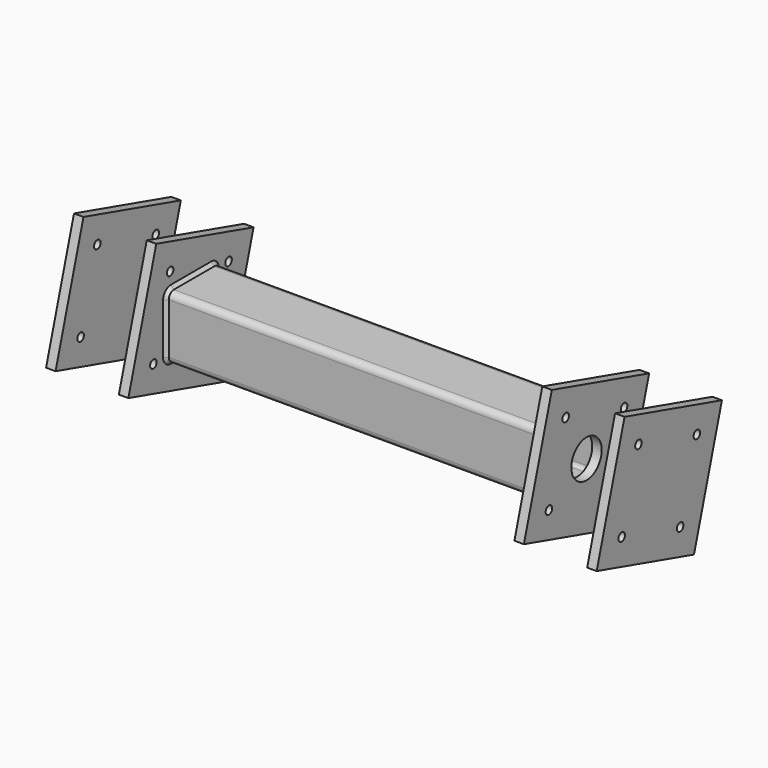
from build123d import *

# Parameters (mm, degrees)
F1_DEPTH = 640
F2_R     = 6.5
F2_R_2   = 30
F3_DEPTH = 15
F4_START = -625
F4_DEPTH = 15
F5_SIZE  = 5
F7_DEPTH = 25
F8_START = 100
F8_DEPTH = 15
F9_START = -740
F9_DEPTH = 15


with BuildPart() as f1:
    # F0 (on Right) → F1 (new body)
    with BuildSketch(Plane.YZ):
        with BuildLine():
            Line((40, 50), (-40, 50))
            ThreePointArc((-40, 50), (-47.0710678119, 47.0710678119), (-50, 40))
            Line((-50, 40), (-50, -40))
            ThreePointArc((-50, -40), (-47.0710678119, -47.0710678119), (-40, -50))
            Line((-40, -50), (40, -50))
            ThreePointArc((40, -50), (47.0710678119, -47.0710678119), (50, -40))
            Line((50, -40), (50, 40))
            ThreePointArc((50, 40), (47.0710678119, 47.0710678119), (40, 50))
        make_face()
        with BuildLine():
            ThreePointArc((-46, 40), (-44.2426406871, 44.2426406871), (-40, 46))
            Line((-40, 46), (40, 46))
            ThreePointArc((40, 46), (44.2426406871, 44.2426406871), (46, 40))
            Line((46, 40), (46, -40))
            ThreePointArc((46, -40), (44.2426406871, -44.2426406871), (40, -46))
            Line((40, -46), (-40, -46))
            ThreePointArc((-40, -46), (-44.2426406871, -44.2426406871), (-46, -40))
            Line((-46, -40), (-46, 40))
        make_face(mode=Mode.SUBTRACT)
    extrude(amount=F1_DEPTH)

    # F2 (on face) → F3 (join)
    with BuildSketch(Plane.YZ.offset(640)):
        Polygon((68.5624340121, -123.6899051755), (123.6899051755, 68.5624340121), (-68.5624340121, 123.6899051755), (-123.6899051755, -68.5624340121), align=None)
        with Locations((-74.2139431053, -41.1374604073)):
            Circle(F2_R, mode=Mode.SUBTRACT)
        with Locations((41.1374604073, -74.2139431053)):
            Circle(F2_R, mode=Mode.SUBTRACT)
        with Locations((-41.1374604073, 74.2139431053)):
            Circle(F2_R, mode=Mode.SUBTRACT)
        with BuildLine():
            Line((-40, 50), (40, 50))
            ThreePointArc((40, 50), (47.0710678119, 47.0710678119), (50, 40))
            Line((50, 40), (50, -40))
            ThreePointArc((50, -40), (47.0710678119, -47.0710678119), (40, -50))
            Line((40, -50), (-40, -50))
            ThreePointArc((-40, -50), (-47.0710678119, -47.0710678119), (-50, -40))
            Line((-50, -40), (-50, 40))
            ThreePointArc((-50, 40), (-47.0710678119, 47.0710678119), (-40, 50))
        make_face(mode=Mode.SUBTRACT)
        with Locations((74.2139431053, 41.1374604073)):
            Circle(F2_R, mode=Mode.SUBTRACT)
        with BuildLine():
            ThreePointArc((-40, 46), (-44.2426406871, 44.2426406871), (-46, 40))
            Line((-46, 40), (-46, -40))
            ThreePointArc((-46, -40), (-44.2426406871, -44.2426406871), (-40, -46))
            Line((-40, -46), (40, -46))
            ThreePointArc((40, -46), (44.2426406871, -44.2426406871), (46, -40))
            Line((46, -40), (46, 40))
            ThreePointArc((46, 40), (44.2426406871, 44.2426406871), (40, 46))
            Line((40, 46), (-40, 46))
        make_face()
        Circle(F2_R_2, mode=Mode.SUBTRACT)
    extrude(amount=-F3_DEPTH)

    # F2 (on face) → F4 (join)
    with BuildSketch(Plane.YZ.offset(640).offset(F4_START)):
        Polygon((68.5624340121, -123.6899051755), (123.6899051755, 68.5624340121), (-68.5624340121, 123.6899051755), (-123.6899051755, -68.5624340121), align=None)
        with Locations((-74.2139431053, -41.1374604073)):
            Circle(F2_R, mode=Mode.SUBTRACT)
        with Locations((41.1374604073, -74.2139431053)):
            Circle(F2_R, mode=Mode.SUBTRACT)
        with Locations((-41.1374604073, 74.2139431053)):
            Circle(F2_R, mode=Mode.SUBTRACT)
        Circle(F2_R_2, mode=Mode.SUBTRACT)
        with Locations((74.2139431053, 41.1374604073)):
            Circle(F2_R, mode=Mode.SUBTRACT)
    extrude(amount=-F4_DEPTH)

    # F5
    f5_edges = [f1.edges().sort_by_distance(p)[0] for p in [
        (625, 0, 50),
        (625, 47.071068, 47.071068),
        (625, 50, 0),
        (625, 47.071068, -47.071068),
        (625, -47.071068, 47.071068),
        (625, -50, 0),
        (625, -47.071068, -47.071068),
        (625, 0, -50),
        (15, -50, 0),
        (15, -47.071068, 47.071068),
        (15, -47.071068, -47.071068),
        (15, 0, -50),
        (15, 47.071068, -47.071068),
        (15, 50, 0),
        (15, 47.071068, 47.071068),
        (15, 0, 50),
    ]]
    chamfer(f5_edges, length=F5_SIZE)

    # F6 (on face) → F7 (cut, symmetric)
    with BuildSketch(Plane(origin=(0, 0, -50), x_dir=(1, 0, 0), z_dir=(0, 0, -1))):
        with BuildLine():
            ThreePointArc((15, -15), (30, 0), (15, 15))
            Line((15, 15), (15, -15))
        make_face()
        with BuildLine():
            ThreePointArc((625, 15), (610, 0), (625, -15))
            Line((625, -15), (625, 15))
        make_face()
    extrude(amount=F7_DEPTH, both=True, mode=Mode.SUBTRACT)


with BuildPart() as f8:
    # F2 (on face) → F8 (new body)
    with BuildSketch(Plane.YZ.offset(640).offset(F8_START)):
        Polygon((68.5624340121, -123.6899051755), (123.6899051755, 68.5624340121), (-68.5624340121, 123.6899051755), (-123.6899051755, -68.5624340121), align=None)
        with Locations((-74.2139431053, -41.1374604073)):
            Circle(F2_R, mode=Mode.SUBTRACT)
        with Locations((41.1374604073, -74.2139431053)):
            Circle(F2_R, mode=Mode.SUBTRACT)
        with Locations((-41.1374604073, 74.2139431053)):
            Circle(F2_R, mode=Mode.SUBTRACT)
        Circle(F2_R_2, mode=Mode.SUBTRACT)
        with Locations((74.2139431053, 41.1374604073)):
            Circle(F2_R, mode=Mode.SUBTRACT)
        Circle(F2_R_2)
    extrude(amount=F8_DEPTH)


with BuildPart() as f9:
    # F2 (on face) → F9 (new body)
    with BuildSketch(Plane.YZ.offset(640).offset(F9_START)):
        Polygon((68.5624340121, -123.6899051755), (123.6899051755, 68.5624340121), (-68.5624340121, 123.6899051755), (-123.6899051755, -68.5624340121), align=None)
        with Locations((-74.2139431053, -41.1374604073)):
            Circle(F2_R, mode=Mode.SUBTRACT)
        with Locations((41.1374604073, -74.2139431053)):
            Circle(F2_R, mode=Mode.SUBTRACT)
        with Locations((-41.1374604073, 74.2139431053)):
            Circle(F2_R, mode=Mode.SUBTRACT)
        Circle(F2_R_2, mode=Mode.SUBTRACT)
        with Locations((74.2139431053, 41.1374604073)):
            Circle(F2_R, mode=Mode.SUBTRACT)
        Circle(F2_R_2)
    extrude(amount=-F9_DEPTH)


solid = Compound([f1.part, f8.part, f9.part])
